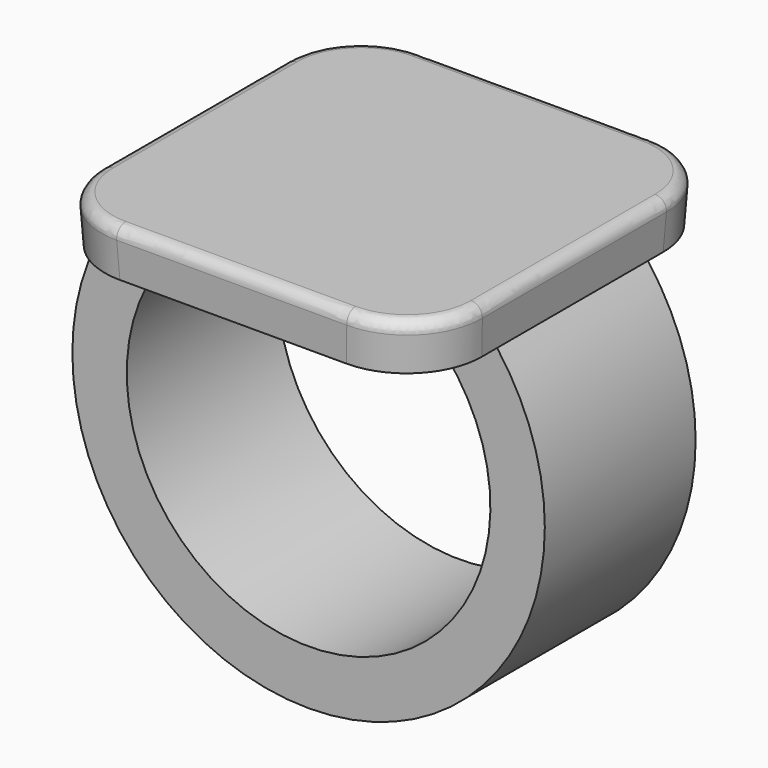
from build123d import *

# Parameters (mm, degrees)
F0_W          = 25.4
F0_H          = 25.4
F1_DEPTH      = 3.175
F1_TAPER      = -3
F3_W          = 5.08
F3_H          = 12.7
F6_DEPTH      = 6.35
F6_DEPTH_BACK = 6.35
F7_R          = 5.08
F8_R          = 0.762


with BuildPart() as f1:
    # F0 (on Top) → F1 (new body)
    with BuildSketch(Plane.XY):
        Rectangle(F0_W, F0_H)
    extrude(amount=F1_DEPTH, taper=F1_TAPER)

    # F4: sweep along a path in F2
    with BuildLine(Plane.XZ) as f4_path:
        ThreePointArc((-10.16, 0), (0, -23.5582897328), (10.16, 0))
    # F3 (on face) → F4 (sweep)
    with BuildSketch(Plane(origin=(0, 0, 0), x_dir=(1, 0, 0), z_dir=(0, 0, -1))):
        with Locations((-10.16, 0)):
            Rectangle(F3_W, F3_H)
    sweep(path=f4_path.line)

    # F5 (on Front) → F6 (join, two sides)
    with BuildSketch(Plane.XZ) as f6_sk:
        with BuildLine():
            Line((10.0130578512, -2.535746045), (10.16, 0))
            Line((10.16, 0), (7.62, 0))
            ThreePointArc((7.62, 0), (8.9072265211, -1.1822790439), (10.0130578512, -2.535746045))
        make_face()
    extrude(amount=F6_DEPTH)
    extrude(f6_sk.sketch, amount=-F6_DEPTH_BACK)

    # F7
    f7_edges = [f1.edges().sort_by_distance(p)[0] for p in [
        (12.783197, -12.783197, 1.5875),
        (-12.783197, -12.783197, 1.5875),
        (-12.783197, 12.783197, 1.5875),
        (12.783197, 12.783197, 1.5875),
    ]]
    fillet(f7_edges, radius=F7_R)

    # F8
    f8_edges = [f1.edges().sort_by_distance(p)[0] for p in [
        (12.866395, 0, 3.175),
        (11.381378, -11.381378, 3.175),
        (11.381378, 11.381378, 3.175),
        (0, -12.866395, 3.175),
        (0, 12.866395, 3.175),
        (-11.381378, -11.381378, 3.175),
        (-11.381378, 11.381378, 3.175),
        (-12.866395, 0, 3.175),
    ]]
    fillet(f8_edges, radius=F8_R)


solid = f1.part
